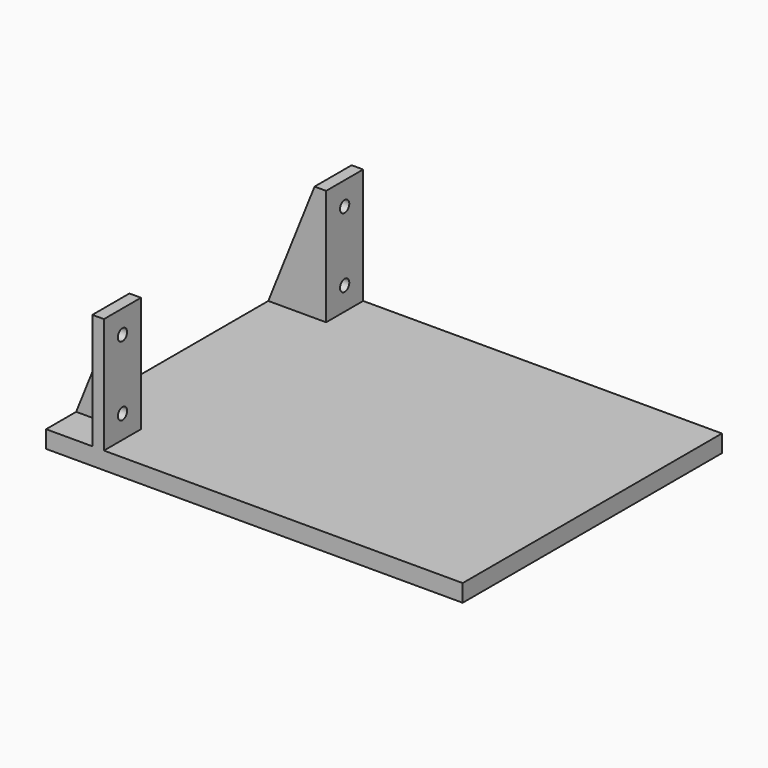
from build123d import *

# Parameters (mm, degrees)
SKETCH018_W          = 457.2
SKETCH018_H          = 355.6
PAD008_DEPTH         = 19.05
PAD009_DEPTH         = 127
POCKET010_DEPTH      = 177.801
POCKET010_DEPTH_BACK = 177.801
SKETCH021_R          = 6.35
POCKET009_DEPTH      = 63.501


with BuildPart() as part:
    # Sketch018 → Pad008 (new body)
    with BuildSketch(Plane.XY):
        with Locations((165.1, 0)):
            Rectangle(SKETCH018_W, SKETCH018_H)
    extrude(amount=-PAD008_DEPTH)

    # Sketch019 → Pad009 (join)
    with BuildSketch(Plane.XY):
        Polygon((0, -127), (0, -177.8), (-12.7, -177.8), (-12.7, -136.525), (-63.5, -136.525), (-63.5, -127), align=None)
        Polygon((-12.7, 136.525), (-63.5, 136.525), (-63.5, 127), (0, 127), (0, 177.8), (-12.7, 177.8), align=None)
    extrude(amount=PAD009_DEPTH)

    # Sketch020 → Pocket010 (cut, two sides)
    with BuildSketch(Plane.XZ) as pocket010_sk:
        Polygon((-63.5, 0), (-12.7, 127), (-63.5, 127), align=None)
    extrude(amount=-POCKET010_DEPTH, mode=Mode.SUBTRACT)
    extrude(pocket010_sk.sketch, amount=POCKET010_DEPTH_BACK, mode=Mode.SUBTRACT)

    # Sketch021 → Pocket009 (cut, through all)
    with BuildSketch(Plane.YZ):
        with Locations((-152.4, 101.6)):
            Circle(SKETCH021_R)
        with Locations((-152.4, 25.4)):
            Circle(SKETCH021_R)
        with Locations((152.4, 101.6)):
            Circle(SKETCH021_R)
        with Locations((152.4, 25.4)):
            Circle(SKETCH021_R)
    extrude(amount=-POCKET009_DEPTH, mode=Mode.SUBTRACT)


solid = part.part
